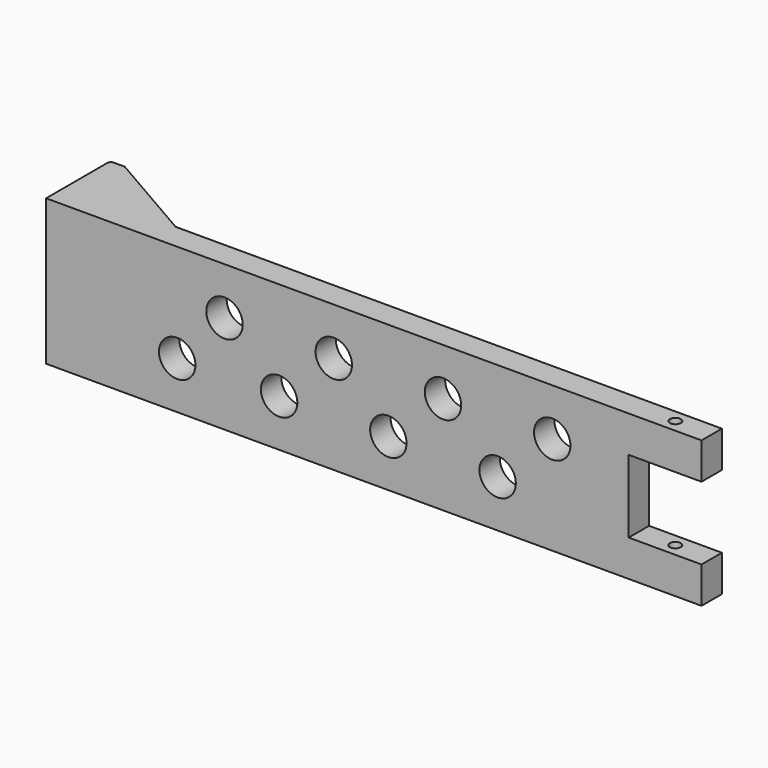
from build123d import *

# Parameters (mm, degrees)
CYLINDER009_R          = 5
CYLINDER009_DEPTH      = 20
CYLINDER009_ROLL_ANGLE = 90
CYLINDER008_R          = 5
CYLINDER008_DEPTH      = 20
CYLINDER008_ROLL_ANGLE = 90
CYLINDER007_R          = 5
CYLINDER007_DEPTH      = 20
CYLINDER007_ROLL_ANGLE = 90
CYLINDER006_R          = 5
CYLINDER006_DEPTH      = 20
CYLINDER006_ROLL_ANGLE = 90
CYLINDER005_R          = 5
CYLINDER005_DEPTH      = 20
CYLINDER005_ROLL_ANGLE = 90
CYLINDER004_R          = 5
CYLINDER004_DEPTH      = 20
CYLINDER004_ROLL_ANGLE = 90
CYLINDER002_R          = 5
CYLINDER002_DEPTH      = 20
CYLINDER002_ROLL_ANGLE = 90
CYLINDER003_R          = 5
CYLINDER003_DEPTH      = 20
CYLINDER003_ROLL_ANGLE = 90
CYLINDER_R             = 1.5
CYLINDER_DEPTH         = 50
BOX003_W               = 20
BOX003_H               = 10
BOX003_DEPTH           = 20
BOX_W                  = 180
BOX_H                  = 7
BOX_DEPTH              = 40
BOX004_W               = 40
BOX004_H               = 20
BOX004_DEPTH           = 11
CYLINDER001_R          = 5.5
CYLINDER001_DEPTH      = 28
CYLINDER001_ROLL_ANGLE = 90
BOX002_W               = 30
BOX002_H               = 15
BOX002_DEPTH           = 40
BOX002_PLACEMENT_ANGLE = 30
BOX001_W               = 30
BOX001_H               = 15
BOX001_DEPTH           = 40
FILLET_R               = 1


with BuildPart() as cilindro008:
    # Cylinder009 → Cylinder009 (new body)
    with BuildSketch(Plane.XY):
        Circle(CYLINDER009_R)
    extrude(amount=CYLINDER009_DEPTH)


with BuildPart() as cilindro008_1:
    # Cylinder009 roll: moved
    add(cilindro008.part.rotate(Axis((0, 0, 0), (1, 0, 0)), CYLINDER009_ROLL_ANGLE))


with BuildPart() as cilindro008_2:
    # Cylinder009 placement: moved
    add(cilindro008_1.part.moved(Location((37, 15, 53))))


with BuildPart() as cilindro007:
    # Cylinder008 → Cylinder008 (new body)
    with BuildSketch(Plane.XY):
        Circle(CYLINDER008_R)
    extrude(amount=CYLINDER008_DEPTH)


with BuildPart() as cilindro007_1:
    # Cylinder008 roll: moved
    add(cilindro007.part.rotate(Axis((0, 0, 0), (1, 0, 0)), CYLINDER008_ROLL_ANGLE))


with BuildPart() as cilindro007_2:
    # Cylinder008 placement: moved
    add(cilindro007_1.part.moved(Location((50, 15, 67))))


with BuildPart() as cilindro006:
    # Cylinder007 → Cylinder007 (new body)
    with BuildSketch(Plane.XY):
        Circle(CYLINDER007_R)
    extrude(amount=CYLINDER007_DEPTH)


with BuildPart() as cilindro006_1:
    # Cylinder007 roll: moved
    add(cilindro006.part.rotate(Axis((0, 0, 0), (1, 0, 0)), CYLINDER007_ROLL_ANGLE))


with BuildPart() as cilindro006_2:
    # Cylinder007 placement: moved
    add(cilindro006_1.part.moved(Location((65, 15, 53))))


with BuildPart() as cilindro005:
    # Cylinder006 → Cylinder006 (new body)
    with BuildSketch(Plane.XY):
        Circle(CYLINDER006_R)
    extrude(amount=CYLINDER006_DEPTH)


with BuildPart() as cilindro005_1:
    # Cylinder006 roll: moved
    add(cilindro005.part.rotate(Axis((0, 0, 0), (1, 0, 0)), CYLINDER006_ROLL_ANGLE))


with BuildPart() as cilindro005_2:
    # Cylinder006 placement: moved
    add(cilindro005_1.part.moved(Location((80, 15, 67))))


with BuildPart() as cilindro004:
    # Cylinder005 → Cylinder005 (new body)
    with BuildSketch(Plane.XY):
        Circle(CYLINDER005_R)
    extrude(amount=CYLINDER005_DEPTH)


with BuildPart() as cilindro004_1:
    # Cylinder005 roll: moved
    add(cilindro004.part.rotate(Axis((0, 0, 0), (1, 0, 0)), CYLINDER005_ROLL_ANGLE))


with BuildPart() as cilindro004_2:
    # Cylinder005 placement: moved
    add(cilindro004_1.part.moved(Location((95, 15, 53))))


with BuildPart() as cilindro003:
    # Cylinder004 → Cylinder004 (new body)
    with BuildSketch(Plane.XY):
        Circle(CYLINDER004_R)
    extrude(amount=CYLINDER004_DEPTH)


with BuildPart() as cilindro003_1:
    # Cylinder004 roll: moved
    add(cilindro003.part.rotate(Axis((0, 0, 0), (1, 0, 0)), CYLINDER004_ROLL_ANGLE))


with BuildPart() as cilindro003_2:
    # Cylinder004 placement: moved
    add(cilindro003_1.part.moved(Location((110, 15, 67))))


with BuildPart() as cilindro001:
    # Cylinder002 → Cylinder002 (new body)
    with BuildSketch(Plane.XY):
        Circle(CYLINDER002_R)
    extrude(amount=CYLINDER002_DEPTH)


with BuildPart() as cilindro001_1:
    # Cylinder002 roll: moved
    add(cilindro001.part.rotate(Axis((0, 0, 0), (1, 0, 0)), CYLINDER002_ROLL_ANGLE))


with BuildPart() as cilindro001_2:
    # Cylinder002 placement: moved
    add(cilindro001_1.part.moved(Location((125, 15, 53))))


with BuildPart() as cilindro002:
    # Cylinder003 → Cylinder003 (new body)
    with BuildSketch(Plane.XY):
        Circle(CYLINDER003_R)
    extrude(amount=CYLINDER003_DEPTH)


with BuildPart() as cilindro002_1:
    # Cylinder003 roll: moved
    add(cilindro002.part.rotate(Axis((0, 0, 0), (1, 0, 0)), CYLINDER003_ROLL_ANGLE))


with BuildPart() as cilindro002_2:
    # Cylinder003 placement: moved
    add(cilindro002_1.part.moved(Location((140, 15, 67))))


with BuildPart() as agujero_tornillo:
    # Cylinder → Cylinder (new body)
    with BuildSketch(Plane(origin=(170, 3.5, 35), x_dir=(1, 0, 0), z_dir=(0, 0, 1))):
        Circle(CYLINDER_R)
    extrude(amount=CYLINDER_DEPTH)


with BuildPart() as cubo:
    # Box003 → Box003 (new body)
    with BuildSketch(Plane(origin=(160, 0, 50), x_dir=(1, 0, 0), z_dir=(0, 0, 1))):
        with Locations((10, 5)):
            Rectangle(BOX003_W, BOX003_H)
    extrude(amount=BOX003_DEPTH)


with BuildPart() as cut012:
    # Box → Box (new body)
    with BuildSketch(Plane.XY.offset(40)):
        with Locations((90, 3.5)):
            Rectangle(BOX_W, BOX_H)
    extrude(amount=BOX_DEPTH)

    # Cut001: cut Cubo
    add(cubo.part, mode=Mode.SUBTRACT)

    # Cut002: cut Agujero tornillo
    add(agujero_tornillo.part, mode=Mode.SUBTRACT)


with BuildPart() as cut012_1:
    # Cut002 placement: moved
    add(cut012.part.moved(Location((1, 0, 0))))

    # Cut005: cut Cilindro002
    add(cilindro002_2.part, mode=Mode.SUBTRACT)

    # Cut006: cut Cilindro001
    add(cilindro001_2.part, mode=Mode.SUBTRACT)

    # Cut007: cut Cilindro003
    add(cilindro003_2.part, mode=Mode.SUBTRACT)

    # Cut008: cut Cilindro004
    add(cilindro004_2.part, mode=Mode.SUBTRACT)

    # Cut009: cut Cilindro005
    add(cilindro005_2.part, mode=Mode.SUBTRACT)

    # Cut010: cut Cilindro006
    add(cilindro006_2.part, mode=Mode.SUBTRACT)

    # Cut011: cut Cilindro007
    add(cilindro007_2.part, mode=Mode.SUBTRACT)

    # Cut012: cut Cilindro008
    add(cilindro008_2.part, mode=Mode.SUBTRACT)


with BuildPart() as cubo001:
    # Box004 → Box004 (new body)
    with BuildSketch(Plane(origin=(-28, 7, 54.5), x_dir=(1, 0, 0), z_dir=(0, 0, 1))):
        with Locations((20, 10)):
            Rectangle(BOX004_W, BOX004_H)
    extrude(amount=BOX004_DEPTH)


with BuildPart() as cilindro:
    # Cylinder001 → Cylinder001 (new body)
    with BuildSketch(Plane.XY):
        Circle(CYLINDER001_R)
    extrude(amount=CYLINDER001_DEPTH)


with BuildPart() as cilindro_1:
    # Cylinder001 roll: moved
    add(cilindro.part.rotate(Axis((0, 0, 0), (1, 0, 0)), CYLINDER001_ROLL_ANGLE))


with BuildPart() as cilindro_2:
    # Cylinder001 placement: moved
    add(cilindro_1.part.moved(Location((12, 33, 60))))


with BuildPart() as cu_a001:
    # Box002 → Box002 (new body)
    with BuildSketch(Plane.XY):
        with Locations((15, 7.5)):
            Rectangle(BOX002_W, BOX002_H)
    extrude(amount=BOX002_DEPTH)


with BuildPart() as cu_a001_1:
    # Box002 placement: moved
    add(cu_a001.part.moved(Location((4, 22, 40))).rotate(Axis((4, 22, 40), (0, 0, -1)), BOX002_PLACEMENT_ANGLE))


with BuildPart() as fusion:
    # Box001 → Box001 (new body)
    with BuildSketch(Plane(origin=(0, 7, 40), x_dir=(1, 0, 0), z_dir=(0, 0, 1))):
        with Locations((15, 7.5)):
            Rectangle(BOX001_W, BOX001_H)
    extrude(amount=BOX001_DEPTH)

    add(cu_a001_1.part, mode=Mode.SUBTRACT)

    # Fillet
    fillet_edges = [fusion.edges().sort_by_distance(p)[0] for p in [
        (0, 22, 60),
    ]]
    fillet(fillet_edges, radius=FILLET_R)

    # Cut003: cut Cilindro
    add(cilindro_2.part, mode=Mode.SUBTRACT)

    # Cut004: cut Cubo001
    add(cubo001.part, mode=Mode.SUBTRACT)


with BuildPart() as fusion_1:
    # Cut004 placement: moved
    add(fusion.part.moved(Location((1, 0, 0))))

    # Fusion: union Cut012
    add(cut012_1.part)


solid = fusion_1.part
